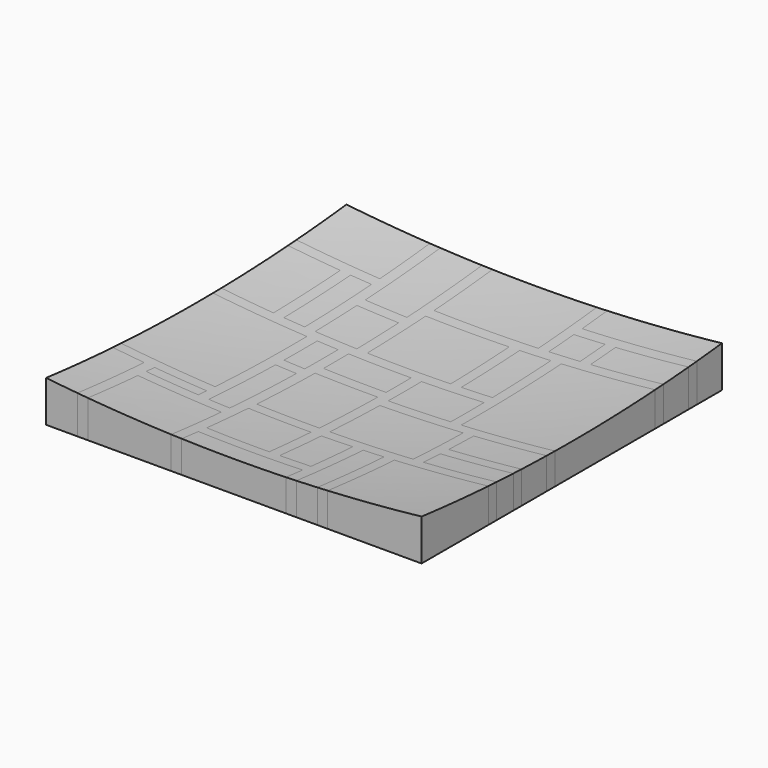
from build123d import *

# Parameters (mm, degrees)
F0_W     = 31.75
F0_H     = 6.35
F0_W_2   = 38.1
F0_H_2   = 31.75
F0_W_3   = 12.7
F0_H_3   = 50.8
F0_H_4   = 44.45
F0_W_4   = 19.05
F0_W_5   = 50.8
F0_H_5   = 38.1
F0_H_6   = 25.4
F0_H_7   = 19.05
F0_W_6   = 25.4
F1_DEPTH = 25.4
F0_W_7   = 57.15
F0_H_8   = 69.85
F0_W_8   = 63.5
F0_H_9   = 12.7
F0_W_9   = 44.45
F0_H_10  = 76.2
F0_W_10  = 69.85
F0_H_11  = 57.15
F2_DEPTH = 25.4


with BuildPart() as f1:
    # F0 (on Top) → F1 (new body)
    with BuildSketch(Plane.XY):
        Polygon((50.8, -114.3), (57.15, -114.3), (57.15, -63.5), (114.3, -63.5), (114.3, -57.15), (69.85, -57.15), (69.85, -44.45), (114.3, -44.45), (114.3, -38.1), (69.85, -38.1), (69.85, -19.05), (114.3, -19.05), (114.3, -12.7), (57.15, -12.7), (57.15, 63.5), (114.3, 63.5), (114.3, 69.85), (69.85, 69.85), (69.85, 88.9), (114.3, 88.9), (114.3, 95.25), (44.45, 95.25), (44.45, 114.3), (38.1, 114.3), (38.1, 69.85), (-25.4, 69.85), (-25.4, 114.3), (-31.75, 114.3), (-31.75, 57.15), (-57.15, 57.15), (-57.15, 114.3), (-63.5, 114.3), (-63.5, 76.2), (-114.3, 76.2), (-114.3, 69.85), (-82.55, 69.85), (-82.55, 19.05), (-114.3, 19.05), (-114.3, 12.7), (-57.15, 12.7), (-57.15, -57.15), (-114.3, -57.15), (-114.3, -63.5), (-95.25, -63.5), (-95.25, -114.3), (-88.9, -114.3), (-88.9, -76.2), (-38.1, -76.2), (-38.1, -114.3), (-31.75, -114.3), (-31.75, -101.6), (31.75, -101.6), (31.75, -114.3), (38.1, -114.3), (38.1, -63.5), (50.8, -63.5), align=None)
        with Locations((-73.025, -66.675)):
            Rectangle(F0_W, F0_H, mode=Mode.SUBTRACT)
        with Locations((-12.7, -79.375)):
            Rectangle(F0_W_2, F0_H_2, mode=Mode.SUBTRACT)
        with Locations((-44.45, -44.45)):
            Rectangle(F0_W_3, F0_H_3, mode=Mode.SUBTRACT)
        with Locations((-12.7, -34.925)):
            Rectangle(F0_W_2, F0_H_4, mode=Mode.SUBTRACT)
        with Locations((22.225, -79.375)):
            Rectangle(F0_W_4, F0_H_2, mode=Mode.SUBTRACT)
        with Locations((38.1, -38.1)):
            Rectangle(F0_W_5, F0_H_5, mode=Mode.SUBTRACT)
        with Locations((-69.85, 44.45)):
            Rectangle(F0_W_3, F0_H_3, mode=Mode.SUBTRACT)
        with Locations((-44.45, 0)):
            Rectangle(F0_W_3, F0_H_6, mode=Mode.SUBTRACT)
        with Locations((-12.7, 3.175)):
            Rectangle(F0_W_2, F0_H_7, mode=Mode.SUBTRACT)
        with Locations((-44.45, 34.925)):
            Rectangle(F0_W_6, F0_H_2, mode=Mode.SUBTRACT)
        with Locations((31.75, 0)):
            Rectangle(F0_W_2, F0_H_6, mode=Mode.SUBTRACT)
        with Locations((0, 41.275)):
            Rectangle(F0_W_5, F0_H_4, mode=Mode.SUBTRACT)
        with Locations((41.275, 41.275)):
            Rectangle(F0_W_4, F0_H_4, mode=Mode.SUBTRACT)
        with Locations((53.975, 79.375)):
            Rectangle(F0_W_4, F0_H_7, mode=Mode.SUBTRACT)
    extrude(amount=F1_DEPTH)


with BuildPart() as f2:
    # F0 (on Top) → F2 (new body)
    with BuildSketch(Plane.XY):
        with Locations((-63.5, -95.25)):
            Rectangle(F0_W_5, F0_H_5)
        with Locations((0, 41.275)):
            Rectangle(F0_W_5, F0_H_4)
        with Locations((38.1, -38.1)):
            Rectangle(F0_W_5, F0_H_5)
        with Locations((-85.725, -22.225)):
            Rectangle(F0_W_7, F0_H_8)
        with Locations((-44.45, -44.45)):
            Rectangle(F0_W_3, F0_H_3)
        with Locations((-73.025, -66.675)):
            Rectangle(F0_W, F0_H)
        with Locations((-104.775, -88.9)):
            Rectangle(F0_W_4, F0_H_3)
        with Locations((-12.7, -79.375)):
            Rectangle(F0_W_2, F0_H_2)
        with Locations((-12.7, -34.925)):
            Rectangle(F0_W_2, F0_H_4)
        with Locations((0, -107.95)):
            Rectangle(F0_W_8, F0_H_9)
        with Locations((22.225, -79.375)):
            Rectangle(F0_W_4, F0_H_2)
        with Locations((44.45, -88.9)):
            Rectangle(F0_W_3, F0_H_3)
        with Locations((85.725, -88.9)):
            Rectangle(F0_W_7, F0_H_3)
        with Locations((92.075, -50.8)):
            Rectangle(F0_W_9, F0_H_9)
        with Locations((92.075, -28.575)):
            Rectangle(F0_W_9, F0_H_7)
        with Locations((85.725, 25.4)):
            Rectangle(F0_W_7, F0_H_10)
        with Locations((92.075, 79.375)):
            Rectangle(F0_W_9, F0_H_7)
        with Locations((53.975, 79.375)):
            Rectangle(F0_W_4, F0_H_7)
        with Locations((79.375, 104.775)):
            Rectangle(F0_W_10, F0_H_7)
        with Locations((6.35, 92.075)):
            Rectangle(F0_W_8, F0_H_4)
        with Locations((41.275, 41.275)):
            Rectangle(F0_W_4, F0_H_4)
        with Locations((31.75, 0)):
            Rectangle(F0_W_2, F0_H_6)
        with Locations((-12.7, 3.175)):
            Rectangle(F0_W_2, F0_H_7)
        with Locations((-44.45, 0)):
            Rectangle(F0_W_3, F0_H_6)
        with Locations((-44.45, 34.925)):
            Rectangle(F0_W_6, F0_H_2)
        with Locations((-69.85, 44.45)):
            Rectangle(F0_W_3, F0_H_3)
        with Locations((-98.425, 44.45)):
            Rectangle(F0_W, F0_H_3)
        with Locations((-88.9, 95.25)):
            Rectangle(F0_W_5, F0_H_5)
        with Locations((-44.45, 85.725)):
            Rectangle(F0_W_6, F0_H_11)
    extrude(amount=F2_DEPTH)


with BuildPart() as f4:
    # F3 (on Front) → F4 (revolve)
    with BuildSketch(Plane.XZ):
        with BuildLine():
            ThreePointArc((0, 12.7), (745.361258, 321.438742), (1054.1, 1066.8))
            ThreePointArc((1054.1, 1066.8), (745.361258, 1812.161258), (0, 2120.9))
            Line((0, 2120.9), (0, 12.7))
        make_face()
    revolve(axis=Axis((0, 0, 1270), (0, 0, 1)))


with BuildPart() as f2_1:
    add(f2.part)

    # F5: cut F4
    add(f4.part, mode=Mode.SUBTRACT)


with BuildPart() as f1_1:
    add(f1.part)

    # F5: cut F4
    add(f4.part, mode=Mode.SUBTRACT)


solid = Compound([f2_1.part, f1_1.part])
